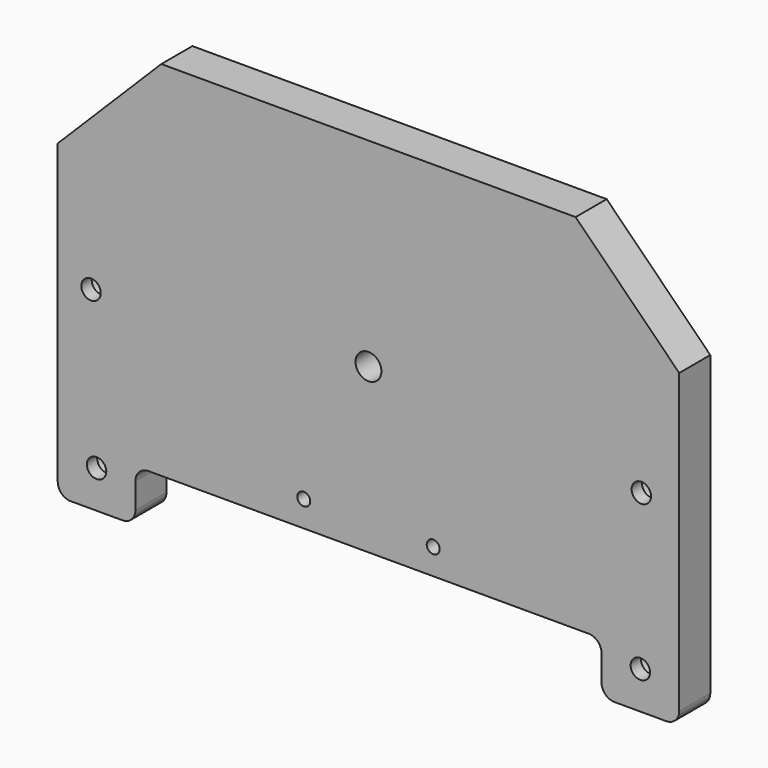
from build123d import *

# Parameters (mm, degrees)
F0_W            = 304.8
F0_H            = 203.2
F1_DEPTH        = 19.05
F2_W            = 228.6
F2_H            = 25.4
F3_DEPTH        = 19.051
F5_D            = 6.35
F6_R            = 6.35
F8_D            = 12.7
F9_R            = 5.4271203762
F9_R_2          = 6.35
F10_DEPTH       = 12.7
F12_D           = 9.525
F12_CBORE_D     = 15.875
F12_CBORE_DEPTH = 12.7
F13_SIZE        = 50.8


with BuildPart() as f1:
    # F0 (on Front) → F1 (new body)
    with BuildSketch(Plane.XZ):
        with Locations((152.4, 101.6)):
            Rectangle(F0_W, F0_H)
    extrude(amount=F1_DEPTH)

    # F2 (on face) → F3 (cut, through all)
    with BuildSketch(Plane.XZ.offset(19.05)):
        with Locations((152.4, 12.7)):
            Rectangle(F2_W, F2_H)
    extrude(amount=-F3_DEPTH, mode=Mode.SUBTRACT)

    # F5 (through all)
    with Locations(Plane.XZ.offset(19.05)):
        with Locations((120.65, 38.1), (184.15, 38.1)):
            Hole(F5_D / 2)

    # F6
    f6_edges = [f1.edges().sort_by_distance(p)[0] for p in [
        (38.1, -9.525, 0),
        (38.1, -9.525, 25.4),
        (0, -9.525, 0),
        (266.7, -9.525, 25.4),
        (266.7, -9.525, 0),
        (304.8, -9.525, 0),
    ]]
    fillet(f6_edges, radius=F6_R)

    # F8 (through all)
    with Locations(Plane.XZ.offset(19.05)):
        with Locations((152.4, 105.6132)):
            Hole(F8_D / 2)

    # F9 (on face) → F10 (cut)
    with BuildSketch(Plane(origin=(0, 0, 0), x_dir=(-1, 0, 0), z_dir=(0, 1, 0))):
        with Locations((-25.4, 137.3632)):
            Circle(F9_R)
        with Locations((-279.4, 137.3632)):
            Circle(F9_R_2)
    extrude(amount=-F10_DEPTH, mode=Mode.SUBTRACT)

    # F12 (through all)
    with Locations(Plane(origin=(0, 0, 0), x_dir=(-1, 0, 0), z_dir=(0, 1, 0))):
        with Locations((-286.227653817, 94.6363272378), (-285.75, 18.4363272378), (-19.05, 18.4363272378), (-16.3299310523, 94.6363272378)):
            CounterBoreHole(F12_D / 2, F12_CBORE_D / 2, F12_CBORE_DEPTH)

    # F13
    f13_edges = [f1.edges().sort_by_distance(p)[0] for p in [
        (304.8, -9.525, 203.2),
        (0, -9.525, 203.2),
    ]]
    chamfer(f13_edges, length=F13_SIZE)


solid = f1.part
